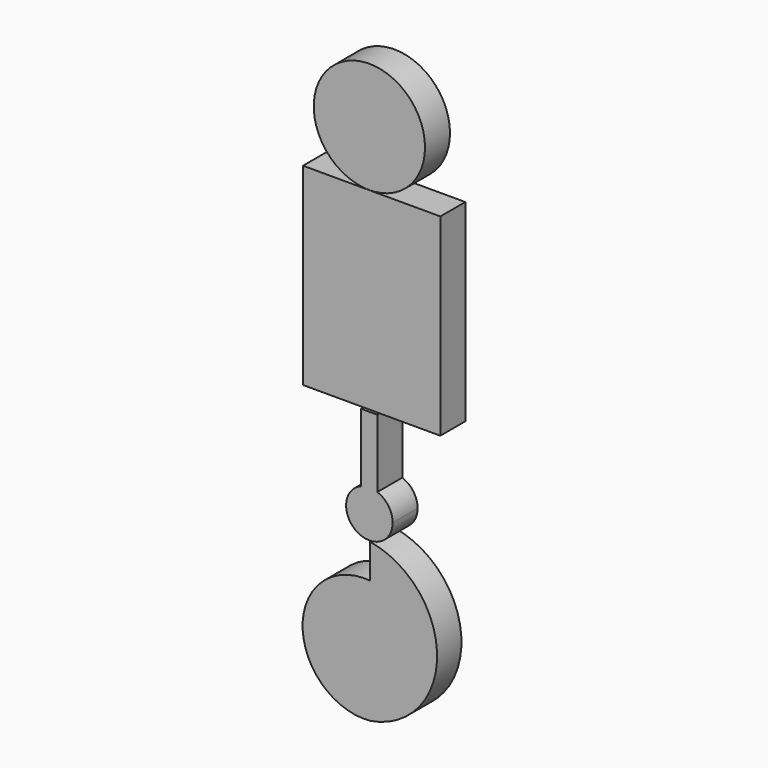
from build123d import *

# Parameters (mm, degrees)
F1_DEPTH = 17.14836
F3_W     = 77.4238
F3_H     = 108.853265
F3_R     = 31.364815
F4_DEPTH = 17.59801


with BuildPart() as f1:
    # F0 (on Front) → F1 (new body)
    with BuildSketch(Plane.XZ):
        with BuildLine():
            Line((0, 55.873934), (0, 36.572032))
            ThreePointArc((0, 36.572032), (-38.020248, 1.777809), (0, -33.016413))
            ThreePointArc((0, -33.016413), (37.824576, 11.42876), (0, 55.873934))
        make_face()
    extrude(amount=F1_DEPTH)


with BuildPart() as f4:
    # F2 (on Front) + F3 (on Front) → F4 (new body)
    with BuildSketch(Plane.XZ):
        with BuildLine():
            ThreePointArc((-4.771045, 82.049359), (-7.401353, 58.992256), (13.121014, 69.826506))
            ThreePointArc((13.121014, 69.826506), (10.740433, 77.363356), (4.462522, 82.165344))
            Line((4.462522, 82.165344), (4.462522, 69.627687))
            Line((4.462522, 69.627687), (-4.771045, 69.627687))
            Line((-4.771045, 69.627687), (-4.771045, 82.049359))
        make_face()
        with BuildLine():
            ThreePointArc((-4.771045, 82.049359), (-0.164802, 82.946485), (4.462522, 82.165344))
            Line((4.462522, 82.165344), (4.462522, 120.54421))
            Line((4.462522, 120.54421), (-4.771045, 120.54421))
            Line((-4.771045, 120.54421), (-4.771045, 82.049359))
        make_face()
        with BuildLine():
            Line((4.462522, 69.627687), (4.462522, 82.165344))
            ThreePointArc((4.462522, 82.165344), (-0.164802, 82.946485), (-4.771045, 82.049359))
            Line((-4.771045, 82.049359), (-4.771045, 69.627687))
            Line((-4.771045, 69.627687), (4.462522, 69.627687))
        make_face()
    with BuildSketch(Plane.XZ):
        with Locations((1.285942, 176.106609)):
            Rectangle(F3_W, F3_H)
        with Locations((0, 261.962712)):
            Circle(F3_R)
    extrude(amount=F4_DEPTH)


solid = Compound([f1.part, f4.part])
